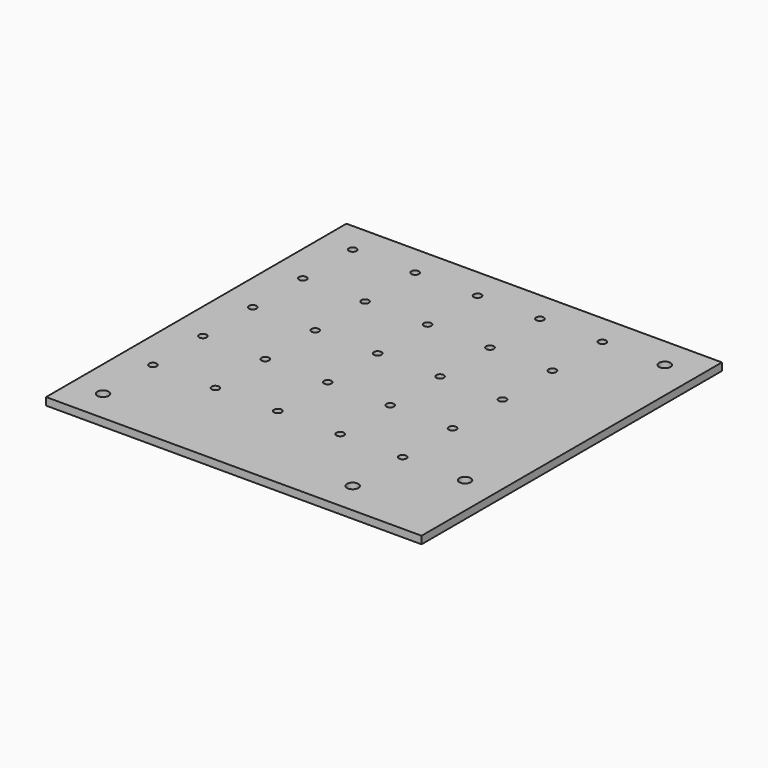
from build123d import *

# Parameters (mm, degrees)
SKETCH_W   = 99.25
SKETCH_H   = 99.25
SKETCH_R   = 1
SKETCH_R_2 = 1.5
PAD_DEPTH  = 2


with BuildPart() as part:
    # Sketch → Pad (new body)
    with BuildSketch(Plane.XY):
        with Locations((8.375, -8.375)):
            Rectangle(SKETCH_W, SKETCH_H)
        Circle(SKETCH_R, mode=Mode.SUBTRACT)
        with Locations((-16.5, 0)):
            Circle(SKETCH_R, mode=Mode.SUBTRACT)
        with Locations((0, 16.5)):
            Circle(SKETCH_R, mode=Mode.SUBTRACT)
        with Locations((-16.5, 16.5)):
            Circle(SKETCH_R, mode=Mode.SUBTRACT)
        with Locations((-33, 16.5)):
            Circle(SKETCH_R, mode=Mode.SUBTRACT)
        with Locations((33, 16.5)):
            Circle(SKETCH_R, mode=Mode.SUBTRACT)
        with Locations((16.5, 16.5)):
            Circle(SKETCH_R, mode=Mode.SUBTRACT)
        with Locations((-33, 0)):
            Circle(SKETCH_R, mode=Mode.SUBTRACT)
        with Locations((16.5, 0)):
            Circle(SKETCH_R, mode=Mode.SUBTRACT)
        with Locations((33, 0)):
            Circle(SKETCH_R, mode=Mode.SUBTRACT)
        with Locations((0, -16.5)):
            Circle(SKETCH_R, mode=Mode.SUBTRACT)
        with Locations((16.5, -16.5)):
            Circle(SKETCH_R, mode=Mode.SUBTRACT)
        with Locations((33, -16.5)):
            Circle(SKETCH_R, mode=Mode.SUBTRACT)
        with Locations((-16.5, -16.5)):
            Circle(SKETCH_R, mode=Mode.SUBTRACT)
        with Locations((-33, -16.5)):
            Circle(SKETCH_R, mode=Mode.SUBTRACT)
        with Locations((-33, 33)):
            Circle(SKETCH_R, mode=Mode.SUBTRACT)
        with Locations((-16.5, 33)):
            Circle(SKETCH_R, mode=Mode.SUBTRACT)
        with Locations((0, 33)):
            Circle(SKETCH_R, mode=Mode.SUBTRACT)
        with Locations((16.5, 33)):
            Circle(SKETCH_R, mode=Mode.SUBTRACT)
        with Locations((33, 33)):
            Circle(SKETCH_R, mode=Mode.SUBTRACT)
        with Locations((-33, -33)):
            Circle(SKETCH_R, mode=Mode.SUBTRACT)
        with Locations((-16.5, -33)):
            Circle(SKETCH_R, mode=Mode.SUBTRACT)
        with Locations((16.5, -33)):
            Circle(SKETCH_R, mode=Mode.SUBTRACT)
        with Locations((33, -33)):
            Circle(SKETCH_R, mode=Mode.SUBTRACT)
        with Locations((0, -33)):
            Circle(SKETCH_R, mode=Mode.SUBTRACT)
        with Locations((-33, -49.5)):
            Circle(SKETCH_R_2, mode=Mode.SUBTRACT)
        with Locations((33, -49.5)):
            Circle(SKETCH_R_2, mode=Mode.SUBTRACT)
        with Locations((49.5, 33)):
            Circle(SKETCH_R_2, mode=Mode.SUBTRACT)
        with Locations((49.5, -33)):
            Circle(SKETCH_R_2, mode=Mode.SUBTRACT)
    extrude(amount=PAD_DEPTH)


solid = part.part
